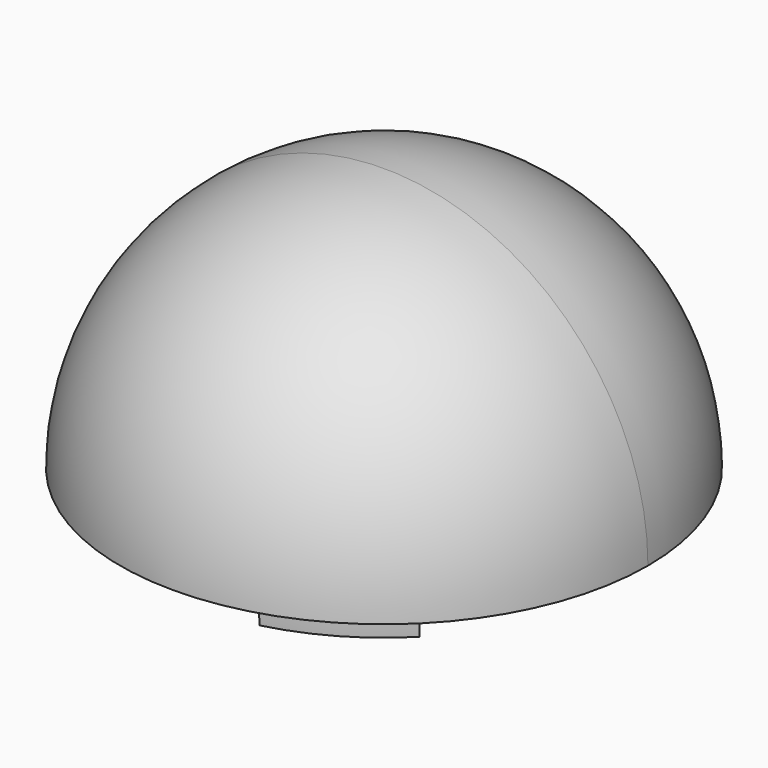
from build123d import *

# Parameters (mm, degrees)
F1_ANGLE      = 180
F3_ANGLE      = 197.782
F5_DEPTH      = 1.27
F5_DEPTH_BACK = 1.27
F7_ANGLE      = 180


with BuildPart() as f1:
    # F0 (on Top) → F1 (revolve)
    with BuildSketch(Plane.XY):
        with BuildLine():
            ThreePointArc((0, -12.7), (8.9802561211, -8.9802561211), (12.7, 0))
            ThreePointArc((12.7, 0), (8.9802561211, 8.9802561211), (0, 12.7))
            Line((0, 12.7), (0, -12.7))
        make_face()
    revolve(axis=Axis((0, 0, 0), (0, -1, 0)), revolution_arc=F1_ANGLE)

    # F2 (on face) → F3 (revolve, cut)
    with BuildSketch(Plane(origin=(0, 0, 0), x_dir=(1, 0, 0), z_dir=(0, 0, -1))):
        with BuildLine():
            Line((-1.66864879, -11.307542227), (1.66864879, 11.307542227))
            ThreePointArc((1.66864879, 11.307542227), (-11.307542227, 1.66864879), (-1.66864879, -11.307542227))
        make_face()
    revolve(axis=Axis((0, 0, 0), (-0.1459885206, 0.9892862841, 0)), revolution_arc=F3_ANGLE, mode=Mode.SUBTRACT)


with BuildPart() as f5:
    # F4 (on face) → F5 (new body, two sides)
    with BuildSketch(Plane(origin=(0, 0, 0), x_dir=(1, 0, 0), z_dir=(0, 0, -1))) as f5_sk:
        with BuildLine():
            ThreePointArc((-11.0191410151, 3.0370102552), (-11.3268195404, 1.5323377888), (-11.43, 0))
            ThreePointArc((-11.43, 0), (-11.3237160387, -1.55510613), (-11.0068407567, -3.0812913782))
            Line((-11.0068407567, -3.0812913782), (-8.89, -2.4886959808))
            Line((-8.89, -2.4886959808), (-8.89, 2.4501929081))
            Line((-8.89, 2.4501929081), (-11.0191410151, 3.0370102552))
        make_face()
    extrude(amount=-F5_DEPTH)
    extrude(f5_sk.sketch, amount=F5_DEPTH_BACK)


with BuildPart() as f5b:
    # F4 (on face) → F5, piece 2 (new body, two sides)
    with BuildSketch(Plane(origin=(0, 0, 0), x_dir=(1, 0, 0), z_dir=(0, 0, -1))) as f5_2_sk:
        with BuildLine():
            Line((2.3230706974, -8.9240622937), (2.879442475, -11.0613611745))
            ThreePointArc((2.879442475, -11.0613611745), (4.33636634, -10.5754823514), (5.7150000412, -9.8986703415))
            ThreePointArc((5.7150000412, -9.8986703415), (7.0086194523, -9.0290726751), (8.1718969883, -7.9915580216))
            Line((8.1718969883, -7.9915580216), (6.6002739417, -6.4546178493))
            Line((6.6002739417, -6.4546178493), (2.3230706974, -8.9240622937))
        make_face()
    extrude(amount=-F5_DEPTH)
    extrude(f5_2_sk.sketch, amount=F5_DEPTH_BACK)


with BuildPart() as f5c:
    # F4 (on face) → F5, piece 3 (new body, two sides)
    with BuildSketch(Plane(origin=(0, 0, 0), x_dir=(1, 0, 0), z_dir=(0, 0, -1))) as f5_3_sk:
        with BuildLine():
            ThreePointArc((5.7150008731, 9.8986698612), (4.3150970719, 10.5841786294), (2.8349437683, 11.0728493998))
            Line((2.8349437683, 11.0728493998), (2.2897260583, 8.94331383))
            Line((2.2897260583, 8.94331383), (6.5669293026, 6.4738693856))
            Line((6.5669293026, 6.4738693856), (8.1396985401, 8.0243509193))
            ThreePointArc((8.1396985401, 8.0243509193), (6.9904536213, 9.0431442634), (5.7150008731, 9.8986698612))
        make_face()
    extrude(amount=-F5_DEPTH)
    extrude(f5_3_sk.sketch, amount=F5_DEPTH_BACK)


with BuildPart() as f7_tool:
    # F6 (on face) → F7 (revolve)
    with BuildSketch(Plane(origin=(0, 0, 0), x_dir=(1, 0, 0), z_dir=(0, 0, -1))):
        with BuildLine():
            ThreePointArc((1.66864879, 11.307542227), (8.6520967305, 7.4690107889), (11.43, 0))
            ThreePointArc((11.43, 0), (11.2058571362, -2.2524799319), (10.5422194499, -4.4166173787))
            Line((10.5422194499, -4.4166173787), (11.7135771666, -4.907352643))
            ThreePointArc((11.7135771666, -4.907352643), (10.5738682271, 7.034437484), (0, 12.7))
            ThreePointArc((0, 12.7), (-7.034437484, 10.5738682271), (-11.7135771666, 4.907352643))
            Line((-11.7135771666, 4.907352643), (-10.5422194499, 4.4166173787))
            ThreePointArc((-10.5422194499, 4.4166173787), (-5.6174972524, 9.9543269295), (1.66864879, 11.307542227))
        make_face()
        with BuildLine():
            ThreePointArc((0, 12.7), (10.5738682271, 7.034437484), (11.7135771666, -4.907352643))
            Line((11.7135771666, -4.907352643), (23.4271543331, -9.814705286))
            ThreePointArc((23.4271543331, -9.814705286), (24.901904747, -5.0055109599), (25.4, 0))
            ThreePointArc((25.4, 0), (5.0055109599, 24.901904747), (-23.4271543331, 9.814705286))
            Line((-23.4271543331, 9.814705286), (-11.7135771666, 4.907352643))
            ThreePointArc((-11.7135771666, 4.907352643), (-7.034437484, 10.5738682271), (0, 12.7))
        make_face()
    revolve(axis=Axis((0, 0, 0), (0.9223289108, 0.3864057199, 0)), revolution_arc=F7_ANGLE)


with BuildPart() as f5_1:
    add(f5.part)

    # F7: cut by f7_tool
    add(f7_tool.part, mode=Mode.SUBTRACT)


with BuildPart() as f5b_1:
    add(f5b.part)

    # F7: cut by f7_tool
    add(f7_tool.part, mode=Mode.SUBTRACT)


with BuildPart() as f5c_1:
    add(f5c.part)

    # F7: cut by f7_tool
    add(f7_tool.part, mode=Mode.SUBTRACT)


solid = Compound([f1.part, f5_1.part, f5b_1.part, f5c_1.part])
